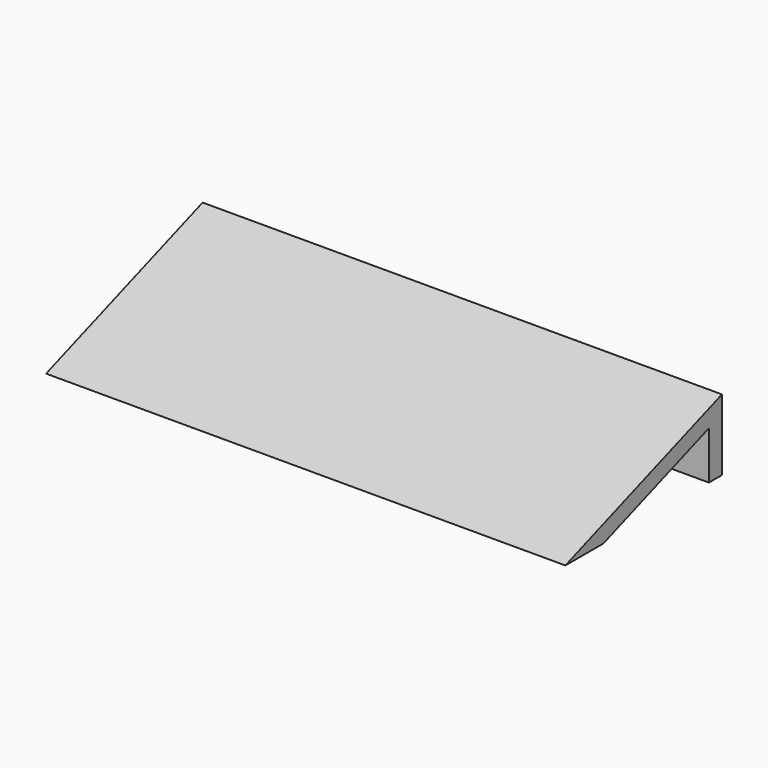
from build123d import *

# Parameters (mm, degrees)
F0_W     = 58.9387752116
F0_H     = 49.3731051683
F1_DEPTH = 134.7465757281
F2_R     = 16.9673265676
F3_DEPTH = 58.9397752116
F4_R     = 12.7
F7_DEPTH = 203.2
F9_DEPTH = 203.201


with BuildPart() as f1:
    # F0 (on Top) → F1 (new body)
    with BuildSketch(Plane.XY):
        with Locations((3.1067002565, 0.1738145947)):
            Rectangle(F0_W, F0_H)
    extrude(amount=F1_DEPTH)

    # F2 (on face) → F3 (cut, through all)
    with BuildSketch(Plane(origin=(-26.3626873493, 0, 0), x_dir=(0, -1, 0), z_dir=(-1, 0, 0))):
        with Locations((10.2675408125, 109.3456819654)):
            Circle(F2_R)
    extrude(amount=-F3_DEPTH, mode=Mode.SUBTRACT)

    # F4
    f4_edges = [f1.edges().sort_by_distance(p)[0] for p in [
        (32.576088, 0.173815, 134.746576),
    ]]
    fillet(f4_edges, radius=F4_R)


with BuildPart() as f7:
    # F6 (on Right) → F7 (new body)
    with BuildSketch(Plane.YZ):
        Polygon((33.2775712013, 15.3340250254), (33.2775712013, 43.1480407715), (-43.289065361, 15.3340250254), align=None)
    extrude(amount=F7_DEPTH)

    # F8 (on face) → F9 (cut, through all)
    with BuildSketch(Plane.YZ.offset(203.2)):
        Polygon((26.9275712013, 34.0853054408), (-24.6910978089, 15.3340250254), (26.9275712013, 15.3340250254), align=None)
    extrude(amount=-F9_DEPTH, mode=Mode.SUBTRACT)


solid = f7.part
